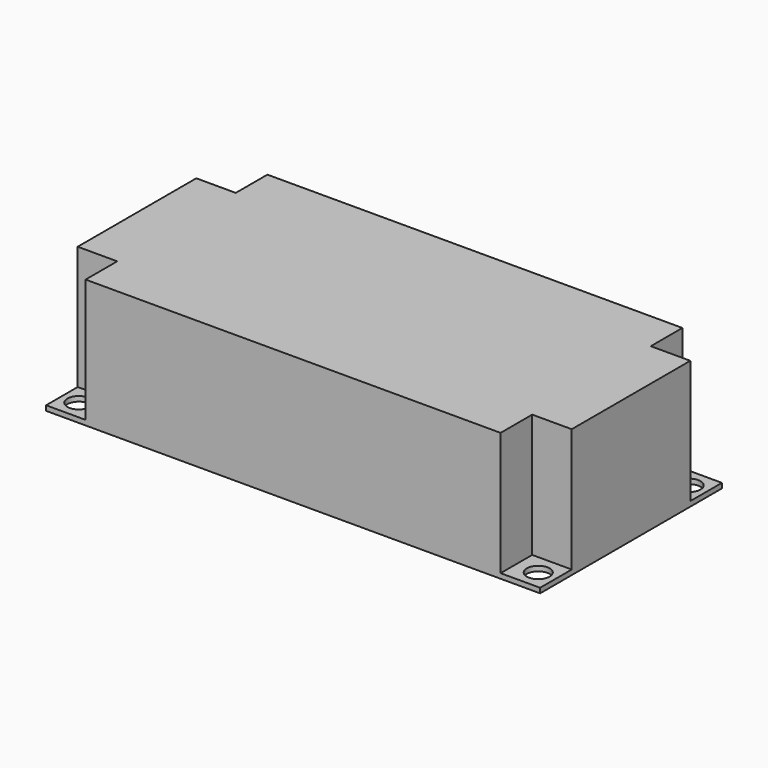
from build123d import *

# Parameters (mm, degrees)
F1_DEPTH = 25
F0_W     = 8
F0_H     = 8
F2_DEPTH = 1
F3_R     = 2.3
F4_DEPTH = 25


with BuildPart() as f1:
    # F0 (on Top) → F1 (new body)
    with BuildSketch(Plane.XY):
        Polygon((42, 23), (-42, 23), (-42, 15), (-50, 15), (-50, -15), (-42, -15), (-42, -23), (42, -23), (42, -15), (50, -15), (50, 15), (42, 15), align=None)
    extrude(amount=F1_DEPTH)

    # F0 (on Top) → F2 (join)
    with BuildSketch(Plane.XY):
        with Locations((-46, -19)):
            Rectangle(F0_W, F0_H)
        with Locations((-46, 19)):
            Rectangle(F0_W, F0_H)
        with Locations((46, 19)):
            Rectangle(F0_W, F0_H)
        with Locations((46, -19)):
            Rectangle(F0_W, F0_H)
        Polygon((42, 23), (-42, 23), (-42, 15), (-50, 15), (-50, -15), (-42, -15), (-42, -23), (42, -23), (42, -15), (50, -15), (50, 15), (42, 15), align=None)
    extrude(amount=-F2_DEPTH)

    # F3 (on Top) → F4 (cut)
    with BuildSketch(Plane.XY):
        with Locations((-46.5, -19.1)):
            Circle(F3_R)
        with Locations((46.5, -19.1)):
            Circle(F3_R)
        with Locations((-46.5, 19.1)):
            Circle(F3_R)
        with Locations((46.5, 19.1)):
            Circle(F3_R)
    extrude(amount=-F4_DEPTH, mode=Mode.SUBTRACT)


solid = f1.part
